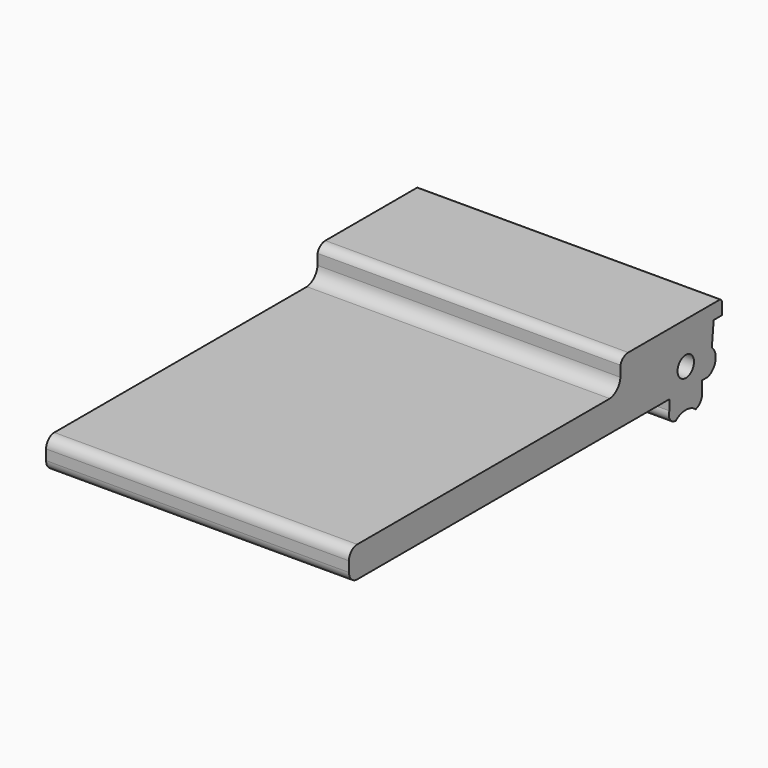
from build123d import *

# Parameters (mm, degrees)
SKETCH_R  = 1
PAD_DEPTH = 29.5


with BuildPart() as part:
    # Sketch → Pad (new body)
    with BuildSketch(Plane.YZ):
        with BuildLine():
            ThreePointArc((-39.994398, 0.999984), (-40.705123, 0.709085), (-41, 0))
            Line((-41, 0), (-41, -1))
            ThreePointArc((-41, -1), (-40.707107, -1.707107), (-40, -2))
            Line((-40, -2), (-2, -2))
            Line((-2, -2), (-2, -3))
            ThreePointArc((-2, -3), (-1.91611, -3.791945), (-1.213507, -4.166863))
            ThreePointArc((-1.213507, -4.166863), (0, -3.728848), (1.213507, -4.166863))
            ThreePointArc((1.213507, -4.166863), (1.818438, -3.726112), (2, -3))
            Line((2, -3), (2, -2))
            Line((2, -2), (2.654702, -2))
            ThreePointArc((2.654702, -2), (3.614511, -0.992973), (3.171248, 0.325684))
            Line((3.171248, 0.325684), (3.4, 2.595785))
            Line((3.4, 2.595785), (4.4, 2.595785))
            Line((4.4, 2.595785), (4.4, 3.74))
            ThreePointArc((4.4, 3.74), (4.312132, 3.952132), (4.1, 4.04))
            Line((4.1, 4.04), (-7, 4.04))
            ThreePointArc((-7, 4.04), (-7.58987, 3.847498), (-7.952638, 3.344107))
            Line((-7.952638, 3.344107), (-7.952638, 2.298428))
            ThreePointArc((-7.952638, 2.298428), (-8.36641, 1.418293), (-9.244398, 0.999984))
            Line((-9.244398, 0.999984), (-39.994398, 0.999984))
        make_face()
        Circle(SKETCH_R, mode=Mode.SUBTRACT)
    extrude(amount=PAD_DEPTH)


solid = part.part
